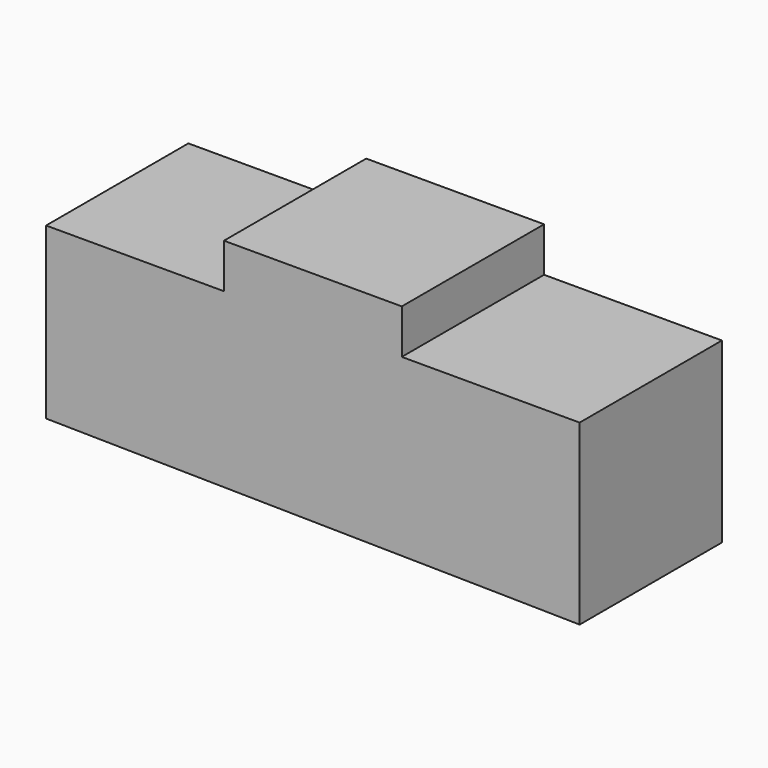
from build123d import *

# Parameters (mm, degrees)
F1_DEPTH = 50.8


with BuildPart() as f1:
    # F0 (on Front) → F1 (new body)
    with BuildSketch(Plane.XZ):
        Polygon((-97.200341, -51.454497), (29.786128, -53.308312), (55.199659, -53.713308), (55.199659, -2.913308), (4.399659, -2.913308), (4.399659, 9.786692), (-46.400341, 9.786692), (-46.400341, -2.913308), (-97.200341, -2.913308), align=None)
    extrude(amount=-F1_DEPTH)


solid = f1.part
